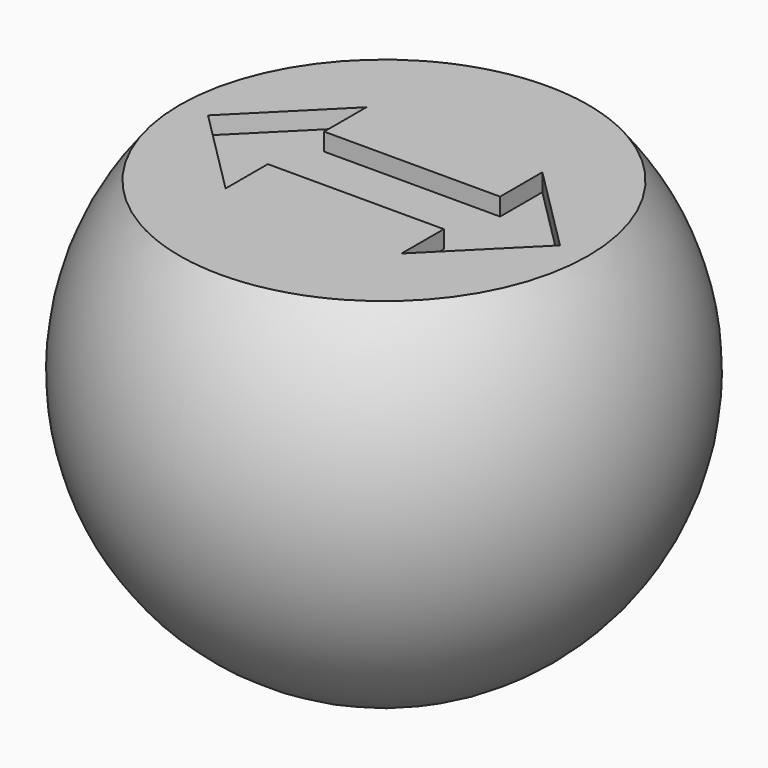
from build123d import *

# Parameters (mm, degrees)
F4_DEPTH  = 30.001
F5_W      = 6
F5_H      = 7
F6_DEPTH  = 13
F7_W      = 50.395424
F7_H      = 8.032865
F8_DEPTH  = 30.001
F9_W      = 10
F9_H      = 4
F10_DEPTH = 1


with BuildPart() as f1:
    # F0 (on Right) → F1 (revolve)
    with BuildSketch(Plane.YZ):
        with BuildLine():
            Line((-30, 0), (0, 0))
            ThreePointArc((0, 0), (-15, 15), (-30, 0))
        make_face()
    revolve(axis=Axis((0, -15, 0), (0, -1, 0)))

    # F3 (on offset) → F4 (cut, through all)
    with BuildSketch(Plane.XY.offset(15)):
        with BuildLine():
            Line((15, 0), (0, 0))
            Line((0, 0), (-15, 0))
            ThreePointArc((-15, 0), (0, -3), (15, 0))
        make_face()
    extrude(amount=-F4_DEPTH, mode=Mode.SUBTRACT)

    # F5 (on Front) → F6 (cut)
    with BuildSketch(Plane.XZ):
        Rectangle(F5_W, F5_H)
    extrude(amount=F6_DEPTH, mode=Mode.SUBTRACT)

    # F7 (on Front) → F8 (cut, through all)
    with BuildSketch(Plane.XZ):
        with Locations((-1.727619, 13.516432)):
            Rectangle(F7_W, F7_H)
    extrude(amount=F8_DEPTH, mode=Mode.SUBTRACT)

    # F9 (on face) → F10 (cut)
    with BuildSketch(Plane.XY.offset(9.5)):
        with Locations((0, -15)):
            Rectangle(F9_W, F9_H)
        Polygon((-5, -17), (-5, -13), (-5, -10), (-10, -15), (-5, -20), align=None)
        Polygon((5, -10), (5, -13), (5, -17), (5, -20), (10, -15), align=None)
    extrude(amount=-F10_DEPTH, mode=Mode.SUBTRACT)


solid = f1.part
